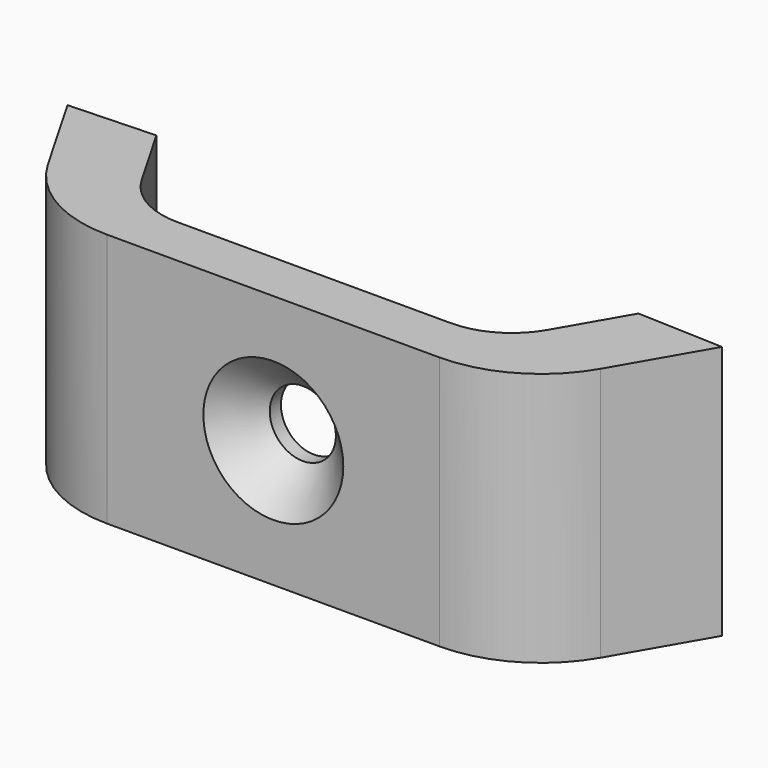
from build123d import *

# Parameters (mm, degrees)
F1_DEPTH = 20
F2_R     = 5.5
F3_DEPTH = 3.5
F3_TAPER = 45
F4_R     = 2.6
F5_DEPTH = 2


with BuildPart() as f1:
    # F0 (on Top) → F1 (new body)
    with BuildSketch(Plane.XY):
        with BuildLine():
            Line((21.7278633238, -44.76), (25.7278633238, -37.8317967697))
            Line((25.7278633238, -37.8317967697), (18.9543606319, -37.5638475773))
            Line((18.9543606319, -37.5638475773), (15.9543606319, -42.76))
            ThreePointArc((15.9543606319, -42.76), (13.7582082092, -44.9561524227), (10.7582082092, -45.76))
            Line((10.7582082092, -45.76), (10, -45.76))
            Line((10, -45.76), (-10, -45.76))
            Line((-10, -45.76), (-10.7582082092, -45.76))
            ThreePointArc((-10.7582082092, -45.76), (-13.7582082092, -44.9561524227), (-15.9543606319, -42.76))
            Line((-15.9543606319, -42.76), (-18.9543606319, -37.5638475773))
            Line((-18.9543606319, -37.5638475773), (-25.7278633238, -37.8317967697))
            Line((-25.7278633238, -37.8317967697), (-21.7278633238, -44.76))
            ThreePointArc((-21.7278633238, -44.76), (-18.0676092859, -48.4202540378), (-13.0676092859, -49.76))
            Line((-13.0676092859, -49.76), (13.0676092859, -49.76))
            ThreePointArc((13.0676092859, -49.76), (18.0676092859, -48.4202540378), (21.7278633238, -44.76))
        make_face()
    extrude(amount=F1_DEPTH)

    # F2 (on face) → F3 (cut)
    with BuildSketch(Plane.XZ.offset(49.76)):
        with Locations((0, 10)):
            Circle(F2_R)
    extrude(amount=-F3_DEPTH, taper=F3_TAPER, mode=Mode.SUBTRACT)

    # F4 (on face) → F5 (cut)
    with BuildSketch(Plane(origin=(0, -45.76, 0), x_dir=(-1, 0, 0), z_dir=(0, 1, 0))):
        with Locations((0, 10)):
            Circle(F4_R)
    extrude(amount=-F5_DEPTH, mode=Mode.SUBTRACT)


solid = f1.part
